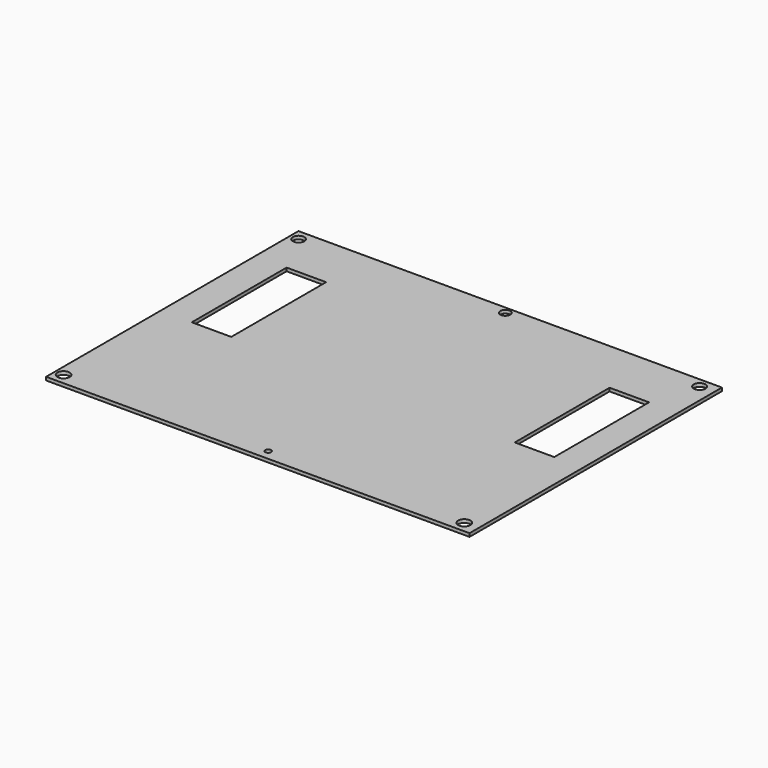
from build123d import *

# Parameters (mm, degrees)
F0_W     = 321.573243
F0_H     = 239.584401
F1_DEPTH = 2.5
F2_W     = 30
F2_H     = 90
F3_DEPTH = 30
F4_W     = 30
F4_H     = 90
F5_DEPTH = 30
F6_R     = 4.370205
F6_R_2   = 4.469907
F6_R_3   = 3.832918
F6_R_4   = 2.234953
F6_R_5   = 4.678676
F6_R_6   = 4.678688
F7_DEPTH = 30


with BuildPart() as f1:
    # F0 (on Top) → F1 (new body)
    with BuildSketch(Plane.XY):
        with Locations((-9.229324, -49.054674)):
            Rectangle(F0_W, F0_H)
    extrude(amount=F1_DEPTH)

    # F2 (on face) → F3 (cut)
    with BuildSketch(Plane.XY.offset(2.5)):
        with Locations((-131.251947, -15.25378)):
            Rectangle(F2_W, F2_H)
    extrude(amount=-F3_DEPTH, mode=Mode.SUBTRACT)

    # F4 (on Top) → F5 (cut)
    with BuildSketch(Plane.XY):
        with Locations((114.714116, -16.105251)):
            Rectangle(F4_W, F4_H)
    extrude(amount=F5_DEPTH, mode=Mode.SUBTRACT)

    # F6 (on face) → F7 (cut)
    with BuildSketch(Plane.XY.offset(2.5)):
        with Locations((-163.504452, 62.698148)):
            Circle(F6_R)
        with Locations((140.44629, 63.464731)):
            Circle(F6_R_2)
        with Locations((-8.654387, 65.381192)):
            Circle(F6_R_3)
        with Locations((-7.504508, -161.144525)):
            Circle(F6_R_4)
        with Locations((-163.504452, -160.377949)):
            Circle(F6_R_5)
        with Locations((140.829593, -160.377949)):
            Circle(F6_R_6)
    extrude(amount=-F7_DEPTH, mode=Mode.SUBTRACT)


solid = f1.part
